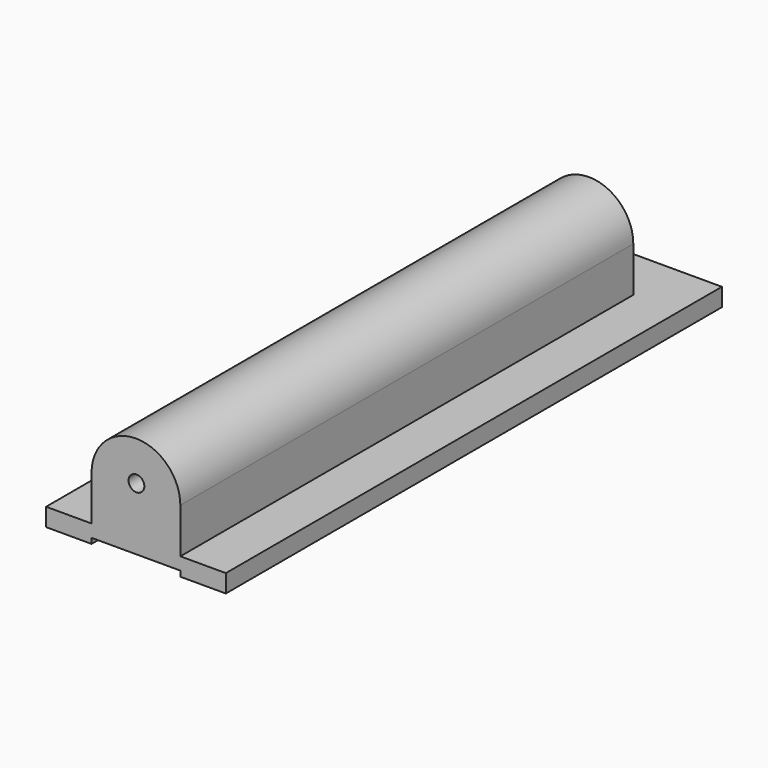
from build123d import *

# Parameters (mm, degrees)
F0_W     = 100
F0_H     = 40
F1_DEPTH = 10
F3_DEPTH = 10
F5_DEPTH = 305
F6_R     = 4.383557
F7_DEPTH = 345.001


with BuildPart() as f1:
    # F0 (on Top) → F1 (new body)
    with BuildSketch(Plane.XY):
        with Locations((50, 20)):
            Rectangle(F0_W, F0_H)
    extrude(amount=F1_DEPTH)

    # F2 (on face) → F3 (join)
    with BuildSketch(Plane.XZ):
        with BuildLine():
            Line((25.301725, 35), (25.301725, 0))
            Line((25.301725, 0), (74.698275, 0))
            Line((74.698275, 0), (74.698275, 35))
            ThreePointArc((74.698275, 35), (50, 59.698275), (25.301725, 35))
        make_face()
    extrude(amount=-F3_DEPTH)

    # F4 (on face) → F5 (join)
    with BuildSketch(Plane.XZ):
        with BuildLine():
            Line((0, 0), (25.301725, 0))
            Line((25.301725, 0), (25.301725, 3))
            Line((25.301725, 3), (74.698275, 3))
            Line((74.698275, 3), (74.698275, 0))
            Line((74.698275, 0), (100, 0))
            Line((100, 0), (100, 10))
            Line((100, 10), (74.698275, 10))
            Line((74.698275, 10), (74.698275, 35))
            ThreePointArc((74.698275, 35), (50, 59.698275), (25.301725, 35))
            Line((25.301725, 35), (25.301725, 10))
            Line((25.301725, 10), (0, 10))
            Line((0, 10), (0, 0))
        make_face()
    extrude(amount=F5_DEPTH)

    # F6 (on face) → F7 (cut, through all)
    with BuildSketch(Plane.XZ.offset(305)):
        with Locations((50.276015, 37.776016)):
            Circle(F6_R)
    extrude(amount=-F7_DEPTH, mode=Mode.SUBTRACT)


solid = f1.part
